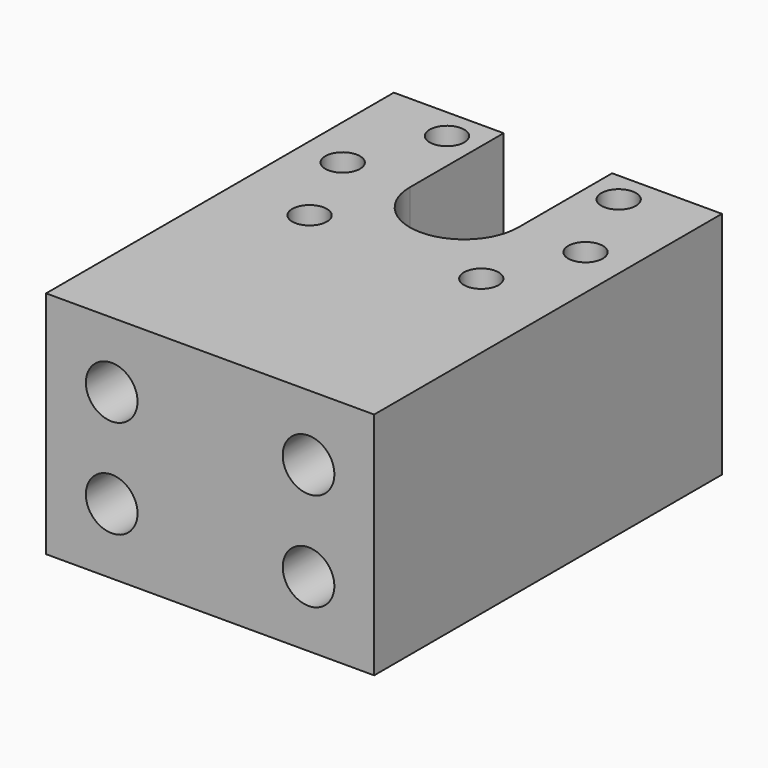
from build123d import *

# Parameters (mm, degrees)
F0_W     = 63.5
F0_H     = 44.45
F1_DEPTH = 84.1375
F2_R     = 5
F3_DEPTH = 25.4
F4_R     = 3.35
F5_DEPTH = 44.451


with BuildPart() as f1:
    # F0 (on Front) → F1 (new body)
    with BuildSketch(Plane.XZ):
        with Locations((-33.239908, 2.843605)):
            Rectangle(F0_W, F0_H)
    extrude(amount=F1_DEPTH)

    # F2 (on face) → F3 (cut)
    with BuildSketch(Plane.XZ.offset(84.1375)):
        with Locations((-52.289908, 12.368605)):
            Circle(F2_R)
        with Locations((-52.289908, -6.681395)):
            Circle(F2_R)
        with Locations((-14.189908, 12.368605)):
            Circle(F2_R)
        with Locations((-14.189908, -6.681395)):
            Circle(F2_R)
    extrude(amount=-F3_DEPTH, mode=Mode.SUBTRACT)

    # F4 (on face) → F5 (cut, through all)
    with BuildSketch(Plane(origin=(0, 0, -19.381395), x_dir=(1, 0, 0), z_dir=(0, 0, -1))):
        with Locations((-56.739908, 22.688)):
            Circle(F4_R)
        with Locations((-49.856917, 6.070991)):
            Circle(F4_R)
        with Locations((-16.622898, 6.070991)):
            Circle(F4_R)
        with Locations((-9.739908, 22.688)):
            Circle(F4_R)
        with Locations((-16.622898, 39.305009)):
            Circle(F4_R)
        with Locations((-49.856917, 39.305009)):
            Circle(F4_R)
        with BuildLine():
            Line((-22.739908, 0), (-22.739908, 22.688))
            ThreePointArc((-22.739908, 22.688), (-33.239908, 33.188), (-43.739908, 22.688))
            Line((-43.739908, 22.688), (-43.739908, 0))
            Line((-43.739908, 0), (-22.739908, 0))
        make_face()
    extrude(amount=-F5_DEPTH, mode=Mode.SUBTRACT)


solid = f1.part
